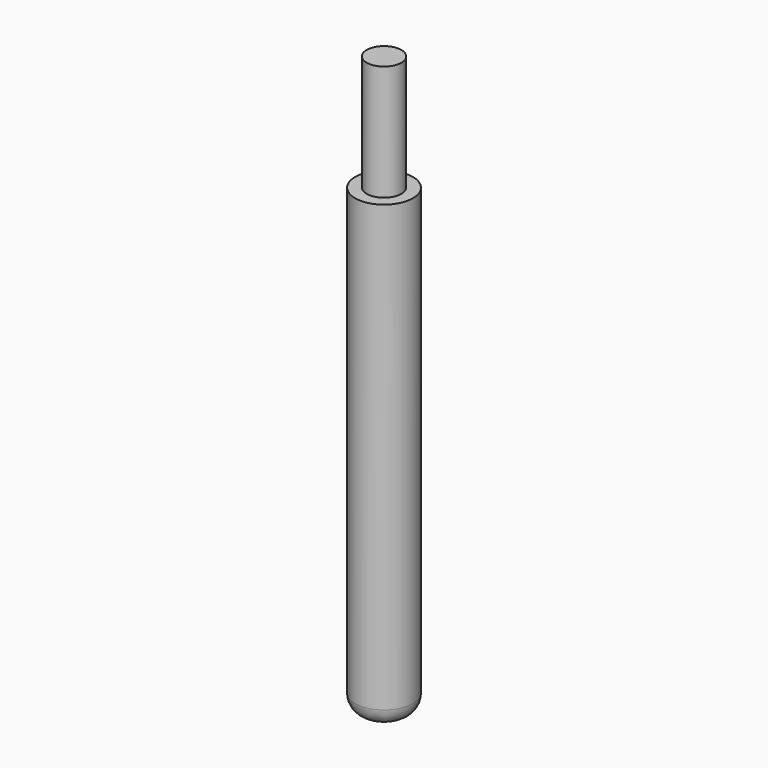
from build123d import *


with BuildPart() as part:
    # Sketch → Revolution (revolve)
    with BuildSketch(Plane.XZ):
        with BuildLine():
            Line((0, 50), (0, 0))
            Line((0, 0), (1, 0))
            ThreePointArc((1, 0), (2.06066, 0.43934), (2.5, 1.5))
            Line((2.5, 1.5), (2.5, 40))
            Line((1.5, 40.01), (2.5, 40))
            Line((1.5, 50), (1.5, 40.01))
            Line((1.5, 50), (0, 50))
        make_face()
    revolve(axis=Axis((0, 0, 0), (0, 0, 1)))


solid = part.part
